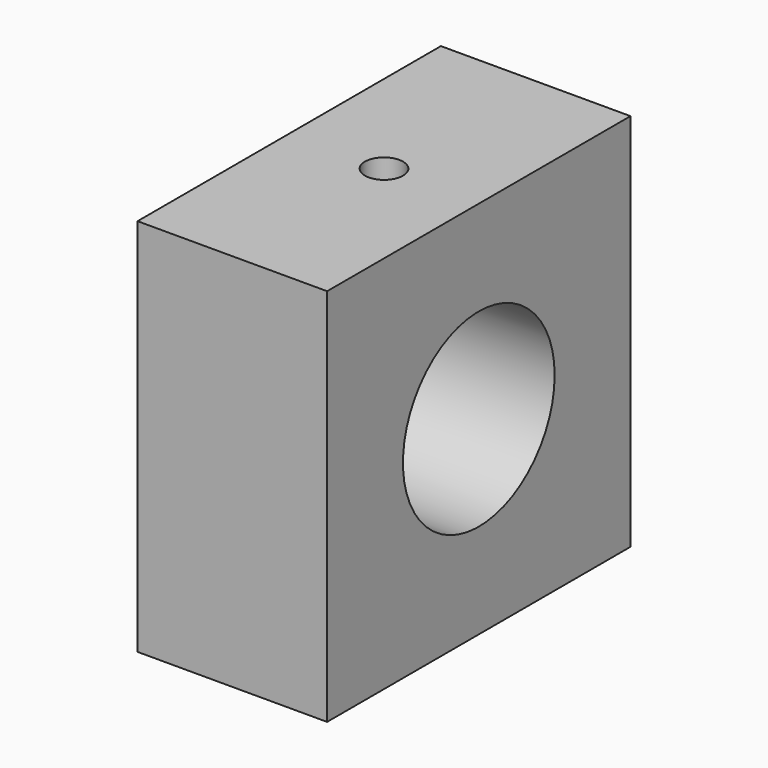
from build123d import *

# Parameters (mm, degrees)
F0_W     = 25.4
F0_H     = 50.8
F1_DEPTH = 50.8
F2_R     = 12.7
F3_DEPTH = 25.401
F5_D     = 5.1054
F5_DEPTH = 12.7
F5_TIP   = 1.5338169022


with BuildPart() as f1:
    # F0 (on Front) → F1 (new body)
    with BuildSketch(Plane.XZ):
        with Locations((12.7, 25.4)):
            Rectangle(F0_W, F0_H)
    extrude(amount=F1_DEPTH)

    # F2 (on face) → F3 (cut, through all)
    with BuildSketch(Plane.YZ.offset(25.4)):
        with Locations((-25.4, 25.4)):
            Circle(F2_R)
    extrude(amount=-F3_DEPTH, mode=Mode.SUBTRACT)

    # F5
    with Locations(Plane.XY.offset(50.8)):
        with Locations((12.7, -25.4)):
            Hole(F5_D / 2, depth=F5_DEPTH)
            with Locations((0, 0, -(F5_DEPTH + F5_TIP / 2))):  # 118° drill point
                Cone(0, F5_D / 2, F5_TIP, mode=Mode.SUBTRACT)


solid = f1.part
